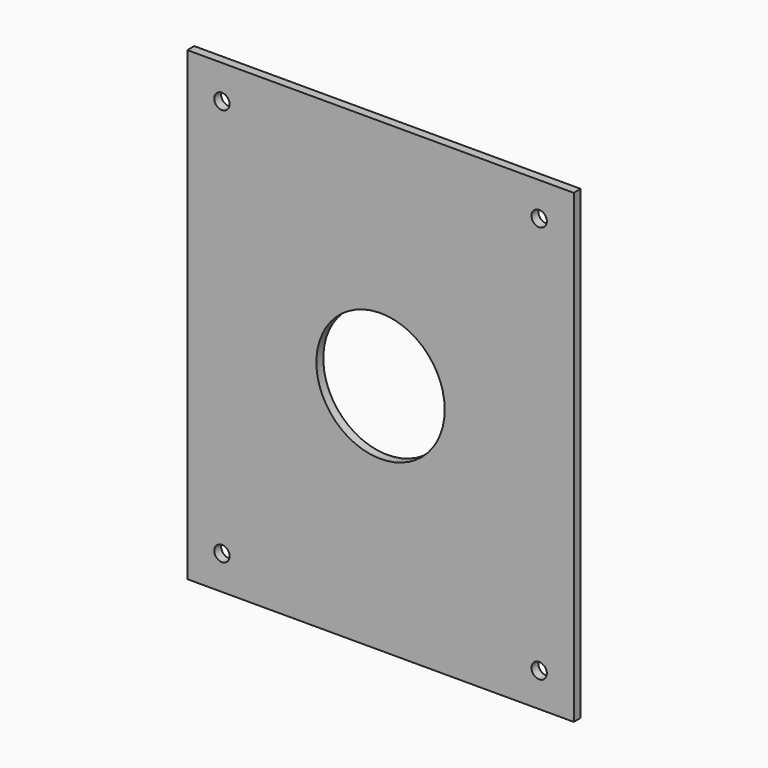
from build123d import *

# Parameters (mm, degrees)
F0_W     = 68.072
F0_H     = 82.042
F1_DEPTH = 1.524
F3_D     = 2.7051
F4_R     = 11.303
F5_DEPTH = 1.525


with BuildPart() as f1:
    # F0 (on Front) → F1 (new body)
    with BuildSketch(Plane.XZ):
        with Locations((34.036, -41.021)):
            Rectangle(F0_W, F0_H)
    extrude(amount=F1_DEPTH)

    # F3 (through all)
    with Locations(Plane.XZ.offset(1.524)):
        with Locations((6.096, -5.969), (61.976, -5.969), (61.976, -76.073), (6.096, -76.073)):
            Hole(F3_D / 2)

    # F4 (on face) → F5 (cut, through all)
    with BuildSketch(Plane.XZ.offset(1.524)):
        with Locations((34.036, -41.021)):
            Circle(F4_R)
    extrude(amount=-F5_DEPTH, mode=Mode.SUBTRACT)


solid = f1.part
